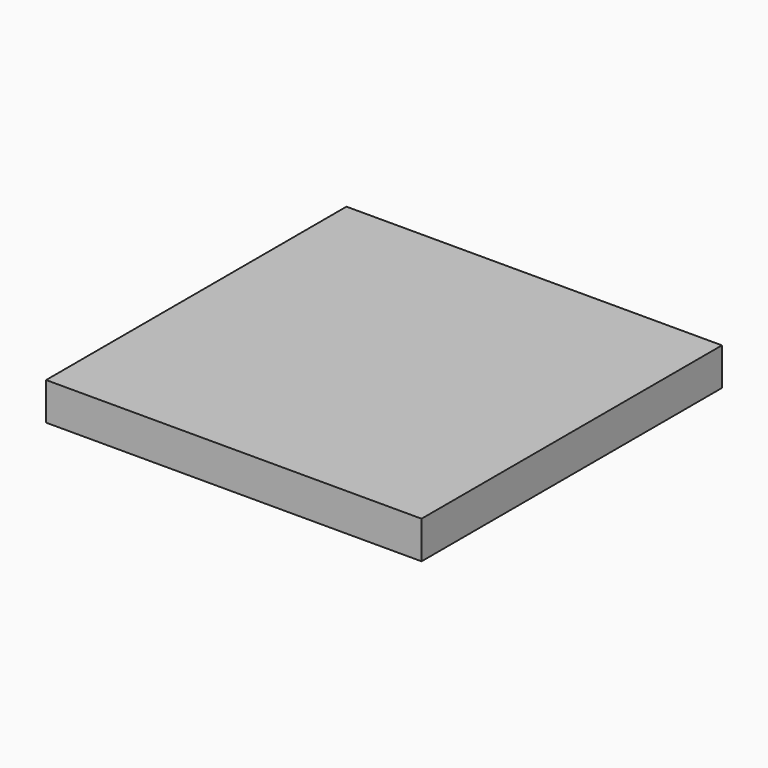
from build123d import *

# Parameters (mm, degrees)
BOX_W     = 1000
BOX_H     = 1000
BOX_DEPTH = 100


with BuildPart() as part:
    # Box → Box (new body)
    with BuildSketch(Plane.XY):
        with Locations((500, 500)):
            Rectangle(BOX_W, BOX_H)
    extrude(amount=BOX_DEPTH)


solid = part.part
